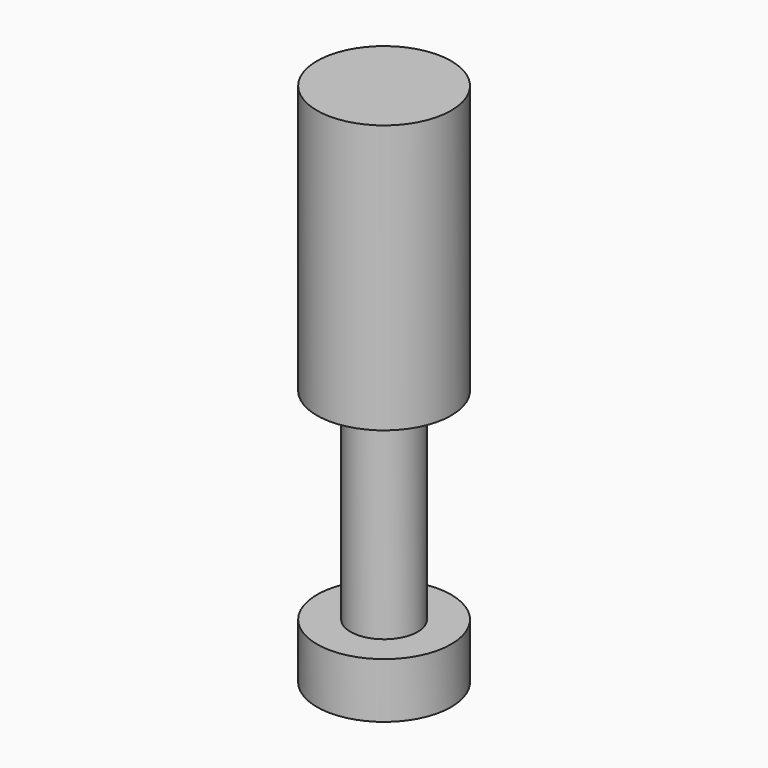
from build123d import *

# Parameters (mm, degrees)
F0_R     = 6.35
F1_DEPTH = 6.35
F2_R     = 3.175
F3_DEPTH = 19.05
F4_R     = 6.35
F5_DEPTH = 25.4
F6_SIZE2 = 1.1196763275
F6_SIZE  = 6.35


with BuildPart() as f1:
    # F0 (on Top) → F1 (new body)
    with BuildSketch(Plane.XY):
        Circle(F0_R)
    extrude(amount=F1_DEPTH)

    # F2 (on face) → F3 (join)
    with BuildSketch(Plane.XY.offset(6.35)):
        Circle(F2_R)
    extrude(amount=F3_DEPTH)

    # F4 (on face) → F5 (join)
    with BuildSketch(Plane.XY.offset(25.4)):
        Circle(F4_R)
    extrude(amount=F5_DEPTH)

    # F6
    f6_edges = [f1.edges().sort_by_distance(p)[0] for p in [
        (-6.35, 0, 0),
    ]]
    f6_side = f1.faces().sort_by_distance((0, 0, 0))[0]
    chamfer(f6_edges, length=F6_SIZE, length2=F6_SIZE2, reference=f6_side)


solid = f1.part
